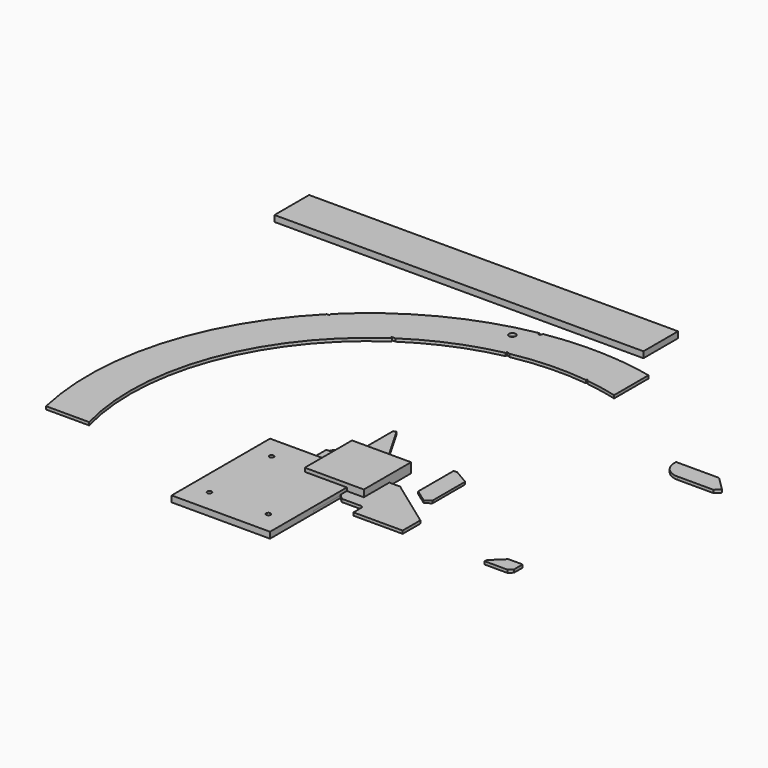
from build123d import *

# Parameters (mm, degrees)
F0_R      = 13.5
F1_DEPTH  = 12
F3_DEPTH  = 10
F5_DEPTH  = 10
F6_DEPTH  = 10
F7_W      = 1500
F7_H      = 176
F8_DEPTH  = 12
F9_DEPTH  = 25
F11_DEPTH = 12
F12_W     = 400
F12_H     = 500
F12_R     = 9
F13_DEPTH = 16
F14_DEPTH = 25
F16_DEPTH = 12
F17_W     = 100
F17_H     = 150
F18_DEPTH = 8
F19_W     = 50
F19_H     = 100
F20_DEPTH = 12
F21_W     = 50
F21_H     = 50
F22_DEPTH = 12
F23_W     = 240
F23_H     = 240
F24_DEPTH = 40
F26_DEPTH = 10
F27_W     = 200
F27_H     = 280
F28_DEPTH = 10
F29_W     = 200
F29_H     = 78
F30_DEPTH = 10
F31_W     = 250
F31_H     = 200
F32_DEPTH = 10


with BuildPart() as f1:
    # F0 (on Top) → F1 (new body)
    with BuildSketch(Plane.XY):
        with BuildLine():
            ThreePointArc((121.977138, 960.284113), (186.68498, 949.827731), (250.536836, 935.0162))
            Line((250.536836, 935.0162), (250.536836, 1110.078958))
            ThreePointArc((250.536836, 1110.078958), (186.269532, 1122.652066), (121.385421, 1131.507658))
            Line((121.385421, 1131.507658), (116, 1126.069903))
            Line((116, 1126.069903), (116, 1132.072436))
            ThreePointArc((116, 1132.072436), (-35.953178, 1137.431918), (-187.264538, 1122.486522))
            Line((-187.264538, 1122.486522), (-191.9799, 1111.783504))
            Line((-191.9799, 1111.783504), (-200, 1111.783504))
            Line((-200, 1111.783504), (-200, 1120.287463))
            ThreePointArc((-200, 1120.287463), (-523.177706, 1010.608276), (-799.301982, 810.037247))
            Line((-799.301982, 810.037247), (-799.301982, 800))
            Line((-799.301982, 800), (-809.347886, 800))
            ThreePointArc((-809.347886, 800), (-1094.055192, 313.18882), (-1110.078958, -250.536836))
            Line((-1110.078958, -250.536836), (-935.0162, -250.536836))
            ThreePointArc((-935.0162, -250.536836), (-907.479046, 336.906189), (-544.999083, 800))
            Line((-544.999083, 800), (-550.795078, 800))
            Line((-550.795078, 800), (-550.795078, 806.609631))
            Line((-550.795078, 806.609631), (-535.168108, 806.609631))
            ThreePointArc((-535.168108, 806.609631), (-374.237053, 892.732114), (-200, 947.11351))
            Line((-200, 947.11351), (-200, 954.904914))
            Line((-200, 954.904914), (-186.648764, 949.834848))
            ThreePointArc((-186.648764, 949.834848), (-35.7647, 967.339075), (116, 961.024453))
            Line((116, 961.024453), (116, 968.662679))
            Line((116, 968.662679), (121.977138, 960.284113))
        make_face()
        with Locations((-260, 1056.477165)):
            Circle(F0_R, mode=Mode.SUBTRACT)
        with BuildLine():
            Line((866.588652, 699.241817), (691.588652, 699.241817))
            Line((691.588652, 699.241817), (691.588652, 689.241817))
            ThreePointArc((691.588652, 689.241817), (710.626711, 643.279876), (756.588652, 624.241817))
            Line((756.588652, 624.241817), (866.588652, 624.241817))
            Line((866.588652, 624.241817), (866.588652, 699.241817))
        make_face()
        Polygon((922.67248, 643.157989), (866.588652, 699.241817), (866.588652, 624.241817), (903.756309, 624.241817), align=None)
    extrude(amount=F1_DEPTH)


with BuildPart() as f3:
    # F2 (on Top) → F3 (new body)
    with BuildSketch(Plane.XY):
        Polygon((190.86661, 213.203065), (175.86661, 213.203065), (175.86661, 33.203065), (227.86661, -3.796935), (250.86661, 12.203065), (250.86661, 178.203065), align=None)
    extrude(amount=F3_DEPTH)


with BuildPart() as f5:
    # F4 (on Top) → F5 (new body)
    with BuildSketch(Plane.XY):
        Polygon((9.26071, 130.616721), (-166.73929, 130.616721), (-219.772298, 77.583712), (62.293719, 77.583712), align=None)
    extrude(amount=F5_DEPTH)


with BuildPart() as f6:
    # F0 (on Top) → F6 (new body)
    with BuildSketch(Plane.XY):
        with BuildLine():
            ThreePointArc((121.977138, 960.284113), (186.68498, 949.827731), (250.536836, 935.0162))
            Line((250.536836, 935.0162), (250.536836, 1110.078958))
            ThreePointArc((250.536836, 1110.078958), (186.269532, 1122.652066), (121.385421, 1131.507658))
            Line((121.385421, 1131.507658), (116, 1126.069903))
            Line((116, 1126.069903), (116, 1132.072436))
            ThreePointArc((116, 1132.072436), (-35.953178, 1137.431918), (-187.264538, 1122.486522))
            Line((-187.264538, 1122.486522), (-191.9799, 1111.783504))
            Line((-191.9799, 1111.783504), (-200, 1111.783504))
            Line((-200, 1111.783504), (-200, 1120.287463))
            ThreePointArc((-200, 1120.287463), (-523.177706, 1010.608276), (-799.301982, 810.037247))
            Line((-799.301982, 810.037247), (-799.301982, 800))
            Line((-799.301982, 800), (-809.347886, 800))
            ThreePointArc((-809.347886, 800), (-1094.055192, 313.18882), (-1110.078958, -250.536836))
            Line((-1110.078958, -250.536836), (-935.0162, -250.536836))
            ThreePointArc((-935.0162, -250.536836), (-907.479046, 336.906189), (-544.999083, 800))
            Line((-544.999083, 800), (-550.795078, 800))
            Line((-550.795078, 800), (-550.795078, 806.609631))
            Line((-550.795078, 806.609631), (-535.168108, 806.609631))
            ThreePointArc((-535.168108, 806.609631), (-374.237053, 892.732114), (-200, 947.11351))
            Line((-200, 947.11351), (-200, 954.904914))
            Line((-200, 954.904914), (-186.648764, 949.834848))
            ThreePointArc((-186.648764, 949.834848), (-35.7647, 967.339075), (116, 961.024453))
            Line((116, 961.024453), (116, 968.662679))
            Line((116, 968.662679), (121.977138, 960.284113))
        make_face()
        with Locations((-260, 1056.477165)):
            Circle(F0_R, mode=Mode.SUBTRACT)
        with BuildLine():
            Line((866.588652, 699.241817), (691.588652, 699.241817))
            Line((691.588652, 699.241817), (691.588652, 689.241817))
            ThreePointArc((691.588652, 689.241817), (710.626711, 643.279876), (756.588652, 624.241817))
            Line((756.588652, 624.241817), (866.588652, 624.241817))
            Line((866.588652, 624.241817), (866.588652, 699.241817))
        make_face()
        Polygon((922.67248, 643.157989), (866.588652, 699.241817), (866.588652, 624.241817), (903.756309, 624.241817), align=None)
    extrude(amount=F6_DEPTH)


with BuildPart() as f8:
    # F7 (on Top) → F8 (new body)
    with BuildSketch(Plane.XY):
        with Locations((-599.419415, 1297.348561)):
            Rectangle(F7_W, F7_H)
    extrude(amount=F8_DEPTH)

    # F7 (on Top) → F9 (join)
    with BuildSketch(Plane.XY):
        with Locations((-599.419415, 1297.348561)):
            Rectangle(F7_W, F7_H)
    extrude(amount=F9_DEPTH)


with BuildPart() as f11:
    # F10 (on Top) → F11 (new body)
    with BuildSketch(Plane.XY):
        Polygon((750.985089, -198.006836), (750.985089, -155.006836), (692.985089, -155.006836), (642.985089, -203.006836), (642.985089, -213.006836), (735.985089, -213.006836), align=None)
    extrude(amount=F11_DEPTH)


with BuildPart() as f13:
    # F12 (on Top) → F13 (new body)
    with BuildSketch(Plane.XY):
        with Locations((-200, -250)):
            Rectangle(F12_W, F12_H)
        with Locations((-320, -408)):
            Circle(F12_R, mode=Mode.SUBTRACT)
        with Locations((-80, -408)):
            Circle(F12_R, mode=Mode.SUBTRACT)
        with Locations((-320, -92)):
            Circle(F12_R, mode=Mode.SUBTRACT)
        with Locations((-80, -92)):
            Circle(F12_R, mode=Mode.SUBTRACT)
    extrude(amount=F13_DEPTH)

    # F12 (on Top) → F14 (join)
    with BuildSketch(Plane.XY):
        with Locations((-200, -250)):
            Rectangle(F12_W, F12_H)
        with Locations((-320, -408)):
            Circle(F12_R, mode=Mode.SUBTRACT)
        with Locations((-80, -408)):
            Circle(F12_R, mode=Mode.SUBTRACT)
        with Locations((-320, -92)):
            Circle(F12_R, mode=Mode.SUBTRACT)
        with Locations((-80, -92)):
            Circle(F12_R, mode=Mode.SUBTRACT)
    extrude(amount=F14_DEPTH)


with BuildPart() as f16:
    # F15 (on Top) → F16 (new body)
    with BuildSketch(Plane.XY):
        with BuildLine():
            Line((20, 20), (0, 0))
            Line((0, 0), (0, -141))
            Line((0, -141), (20, -161))
            Line((20, -161), (98, -161))
            ThreePointArc((98, -161), (105.071068, -163.928932), (108, -171))
            Line((108, -171), (108, -211))
            Line((108, -211), (308, -211))
            Line((308, -211), (308, -121))
            Line((308, -121), (113, 20))
            Line((113, 20), (20, 20))
        make_face()
    extrude(amount=F16_DEPTH)


with BuildPart() as f18:
    # F17 (on Top) → F18 (new body)
    with BuildSketch(Plane.XY):
        with Locations((-50, -75)):
            Rectangle(F17_W, F17_H)
    extrude(amount=F18_DEPTH)


with BuildPart() as f20:
    # F19 (on Top) → F20 (new body)
    with BuildSketch(Plane.XY):
        with Locations((-25, -50)):
            Rectangle(F19_W, F19_H)
    extrude(amount=F20_DEPTH)


with BuildPart() as f22:
    # F21 (on Top) → F22 (new body)
    with BuildSketch(Plane.XY):
        with Locations((-23.646096, -9.75335)):
            Rectangle(F21_W, F21_H)
    extrude(amount=F22_DEPTH)


with BuildPart() as f24:
    # F23 (on Top) → F24 (new body)
    with BuildSketch(Plane.XY):
        with Locations((-51.015153, 10.401622)):
            Rectangle(F23_W, F23_H)
    extrude(amount=F24_DEPTH)


with BuildPart() as f26:
    # F25 (on Top) → F26 (new body)
    with BuildSketch(Plane.XY):
        Polygon((-145, 0), (0, 0), (0, 78), (-135, 312), (-145, 306), align=None)
    extrude(amount=F26_DEPTH)


with BuildPart() as f28:
    # F27 (on Top) → F28 (new body)
    with BuildSketch(Plane.XY):
        with Locations((-100, -140)):
            Rectangle(F27_W, F27_H)
    extrude(amount=F28_DEPTH)


with BuildPart() as f30:
    # F29 (on Top) → F30 (new body)
    with BuildSketch(Plane.XY):
        with Locations((-67.590301, -58.054473)):
            Rectangle(F29_W, F29_H)
    extrude(amount=F30_DEPTH)


with BuildPart() as f32:
    # F31 (on Top) → F32 (new body)
    with BuildSketch(Plane.XY):
        with Locations((-105.379999, -26.168635)):
            Rectangle(F31_W, F31_H)
    extrude(amount=F32_DEPTH)


solid = Compound([f1.part, f3.part, f5.part, f6.part, f8.part, f11.part, f13.part, f16.part, f18.part, f20.part, f22.part, f24.part, f26.part, f28.part, f30.part, f32.part])
